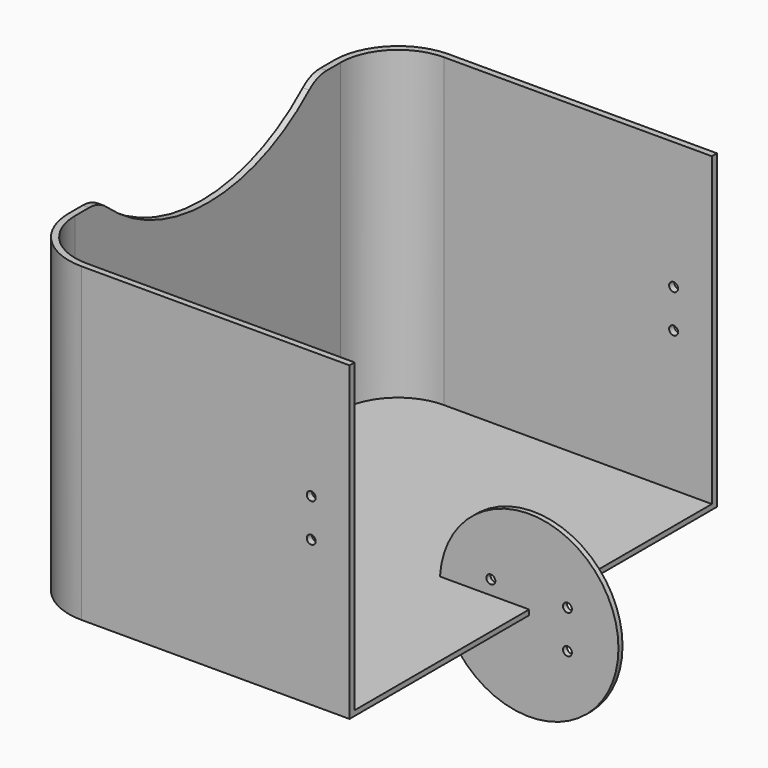
from build123d import *

# Parameters (mm, degrees)
PAD_DEPTH       = 2
PAD001_DEPTH    = 120
SKETCH004_R     = 1.75
POCKET001_DEPTH = 180.001
SKETCH006_R     = 75
POCKET002_DEPTH = 130.001
FILLET_R        = 13
SKETCH002_R     = 35
PAD002_DEPTH    = 2
SKETCH003_R     = 1.75
POCKET_DEPTH    = 2.001


with BuildPart() as body:
    # Sketch → Pad (new body)
    with BuildSketch(Plane.XY):
        with BuildLine():
            Line((0, 90), (-105, 90))
            ThreePointArc((-105, 90), (-122.67767, 82.67767), (-130, 65))
            Line((-130, 65), (-130, -65))
            ThreePointArc((-130, -65), (-122.67767, -82.67767), (-105, -90))
            Line((-105, -90), (0, -90))
            Line((0, 90), (0, -90))
        make_face()
    extrude(amount=PAD_DEPTH)

    # Sketch001 (on Face8 of Pad) → Pad001 (join)
    with BuildSketch(Plane.XY.offset(2)):
        with BuildLine():
            Line((0, 90), (0, 87.5))
            Line((0, 87.5), (-105, 87.5))
            ThreePointArc((-105, 87.5), (-120.909903, 80.909903), (-127.5, 65))
            Line((-127.5, 65), (-127.5, -65))
            ThreePointArc((-127.5, -65), (-120.909903, -80.909903), (-105, -87.5))
            Line((0, -87.5), (-105, -87.5))
            Line((0, -90), (0, -87.5))
            Line((0, -90), (-105, -90))
            ThreePointArc((-130, -65), (-122.67767, -82.67767), (-105, -90))
            Line((-130, 65), (-130, -65))
            ThreePointArc((-105, 90), (-122.67767, 82.67767), (-130, 65))
            Line((0, 90), (-105, 90))
        make_face()
    extrude(amount=PAD001_DEPTH)

    # Sketch004 (on Face14 of Pad001) → Pocket001 (cut, through all)
    with BuildSketch(Plane.XZ.offset(90)):
        with Locations((-15, 72)):
            Circle(SKETCH004_R)
        with Locations((-15, 57)):
            Circle(SKETCH004_R)
    extrude(amount=-POCKET001_DEPTH, mode=Mode.SUBTRACT)

    # Sketch006 (on Face22 of Pocket001) → Pocket002 (cut, through all)
    with BuildSketch(Plane(origin=(-130, 0, 0), x_dir=(0, -1, 0), z_dir=(-1, 0, 0))):
        with Locations((0, 175)):
            Circle(SKETCH006_R)
    extrude(amount=-POCKET002_DEPTH, mode=Mode.SUBTRACT)

    # Fillet
    fillet_edges = [body.edges().sort_by_distance(p)[0] for p in [
        (-128.75, 53.065997, 122),
        (-128.75, -53.065997, 122),
    ]]
    fillet(fillet_edges, radius=FILLET_R)


with BuildPart() as connector:
    # Sketch002 → Pad002 (new body)
    with BuildSketch(Plane.XZ):
        Circle(SKETCH002_R)
    extrude(amount=PAD002_DEPTH)

    # Sketch003 (on Face3 of Pad002) → Pocket (cut, through all)
    with BuildSketch(Plane.XZ.offset(2)):
        with Locations((-15, 7.5)):
            Circle(SKETCH003_R)
        with Locations((-15, -7.5)):
            Circle(SKETCH003_R)
        with Locations((15, -7.5)):
            Circle(SKETCH003_R)
        with Locations((15, 7.5)):
            Circle(SKETCH003_R)
    extrude(amount=-POCKET_DEPTH, mode=Mode.SUBTRACT)


solid = Compound([body.part, connector.part])
